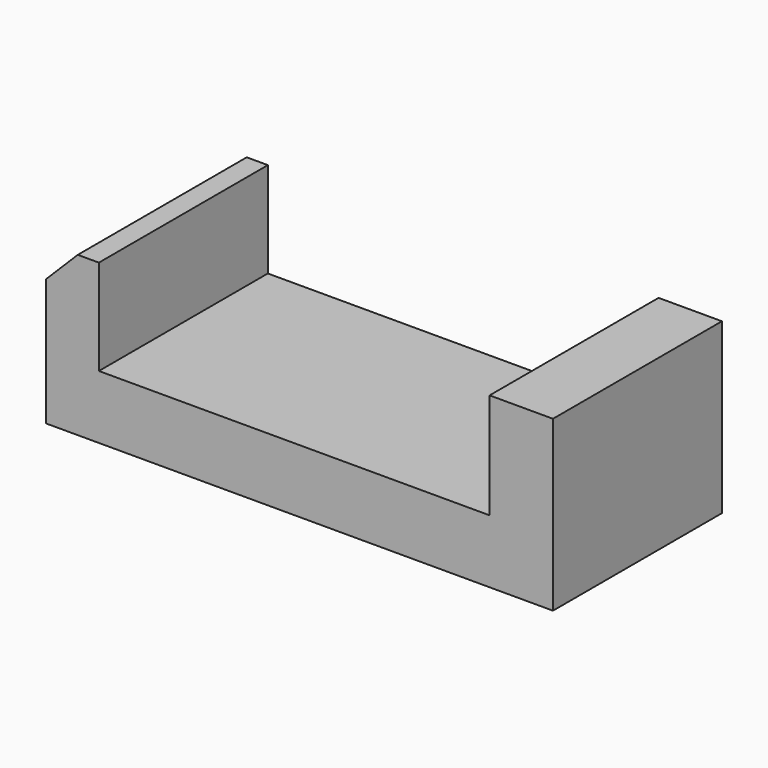
from build123d import *

# Parameters (mm, degrees)
F0_W     = 38.1
F0_H     = 50.8
F1_DEPTH = 127
F2_SIZE2 = 19.05
F2_SIZE  = 19.05


with BuildPart() as f1:
    # F0 (on Front) → F1 (new body)
    with BuildSketch(Plane.XZ):
        with Locations((285.75, 76.2)):
            Rectangle(F0_W, F0_H)
        Polygon((0, 95.464699), (0, 0), (304.8, 0), (304.8, 50.8), (266.7, 50.8), (266.7, 38.1), (31.75, 38.1), (31.75, 95.464699), align=None)
    extrude(amount=F1_DEPTH)

    # F2
    f2_edges = [f1.edges().sort_by_distance(p)[0] for p in [
        (0, -63.5, 95.464699),
    ]]
    chamfer(f2_edges, length=F2_SIZE, length2=F2_SIZE2)


solid = f1.part
